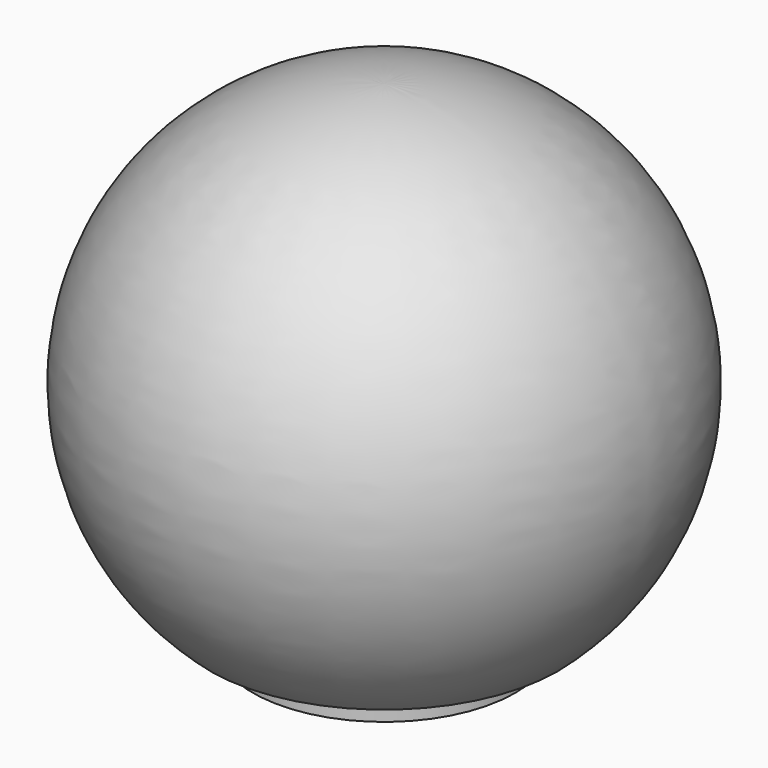
from build123d import *

# Parameters (mm, degrees)
F2_R     = 6.35
F3_DEPTH = 1.5875
F4_R     = 4.7625
F5_DEPTH = 12.7


with BuildPart() as f1:
    # F0 (on Front) → F1 (revolve)
    with BuildSketch(Plane.XZ):
        with BuildLine():
            ThreePointArc((8.40026, -9.525), (11.879762, 4.490128), (0, 12.7))
            Line((0, 12.7), (0, -9.525))
            Line((0, -9.525), (8.40026, -9.525))
        make_face()
    revolve(axis=Axis((0, 0, 1.5875), (0, 0, -1)))

    # F2 (on face) → F3 (join)
    with BuildSketch(Plane(origin=(0, 0, -9.525), x_dir=(1, 0, 0), z_dir=(0, 0, -1))):
        Circle(F2_R)
    extrude(amount=F3_DEPTH)

    # F4 (on face) → F5 (cut)
    with BuildSketch(Plane(origin=(0, 0, -11.1125), x_dir=(1, 0, 0), z_dir=(0, 0, -1))):
        Circle(F4_R)
    extrude(amount=-F5_DEPTH, mode=Mode.SUBTRACT)


solid = f1.part
